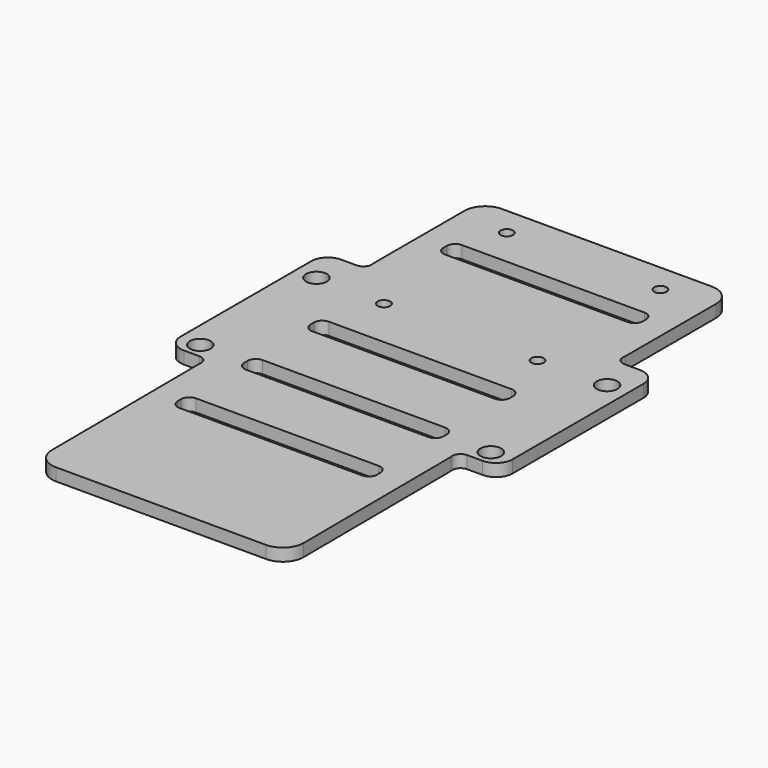
from build123d import *

# Parameters (mm, degrees)
F0_R     = 2.5
F0_R_2   = 1.5
F1_DEPTH = 3


with BuildPart() as f1:
    # F0 (on Top) → F1 (new body)
    with BuildSketch(Plane.XY):
        with BuildLine():
            ThreePointArc((4.42411, -8.948789), (4.068757, -10.673534), (2.487618, -11.448789))
            Line((2.487618, -11.448789), (-1.258349, -11.448789))
            ThreePointArc((-1.258349, -11.448789), (-4.086776, -12.620362), (-5.258349, -15.448789))
            Line((-5.258349, -15.448789), (-5.258349, -54.828789))
            ThreePointArc((-5.258349, -54.828789), (-4.086776, -57.657216), (-1.258349, -58.828789))
            Line((-1.258349, -58.828789), (2.487618, -58.828789))
            ThreePointArc((2.487618, -58.828789), (4.068757, -59.604044), (4.42411, -61.328789))
            Line((4.42411, -61.328789), (4.709902, -106.048986))
            ThreePointArc((4.709902, -106.048986), (6.185581, -109.563846), (9.7098, -111.017033))
            Line((9.7098, -111.017033), (60.344679, -111.017033))
            ThreePointArc((60.344679, -111.017033), (63.891492, -109.541252), (65.344577, -105.985081))
            Line((65.344577, -105.985081), (65.059193, -61.328789))
            ThreePointArc((65.059193, -61.328789), (65.414546, -59.604044), (66.995685, -58.828789))
            Line((66.995685, -58.828789), (70.741651, -58.828789))
            ThreePointArc((70.741651, -58.828789), (73.570078, -57.657216), (74.741651, -54.828789))
            Line((74.741651, -54.828789), (74.741651, -15.448789))
            ThreePointArc((74.741651, -15.448789), (73.570078, -12.620362), (70.741651, -11.448789))
            Line((70.741651, -11.448789), (66.995685, -11.448789))
            ThreePointArc((66.995685, -11.448789), (65.414546, -10.673534), (65.059193, -8.948789))
            Line((65.059193, -8.948789), (65.059193, 18.551211))
            ThreePointArc((65.059193, 18.551211), (63.594727, 22.086745), (60.059193, 23.551211))
            Line((60.059193, 23.551211), (9.42411, 23.551211))
            ThreePointArc((9.42411, 23.551211), (5.888576, 22.086745), (4.42411, 18.551211))
            Line((4.42411, 18.551211), (4.42411, -8.948789))
        make_face()
        with Locations((-0.258349, -55.138789)):
            Circle(F0_R, mode=Mode.SUBTRACT)
        with BuildLine():
            ThreePointArc((10.741651, -74.638789), (11.327438, -73.224575), (12.741651, -72.638789))
            Line((12.741651, -72.638789), (56.741651, -72.638789))
            ThreePointArc((56.741651, -72.638789), (58.155865, -73.224575), (58.741651, -74.638789))
            Line((58.741651, -74.638789), (58.741651, -75.638789))
            ThreePointArc((58.741651, -75.638789), (58.155865, -77.053002), (56.741651, -77.638789))
            Line((56.741651, -77.638789), (12.741651, -77.638789))
            ThreePointArc((12.741651, -77.638789), (11.327438, -77.053002), (10.741651, -75.638789))
            Line((10.741651, -75.638789), (10.741651, -74.638789))
        make_face(mode=Mode.SUBTRACT)
        with BuildLine():
            Line((56.741651, -57.638789), (12.741651, -57.638789))
            ThreePointArc((12.741651, -57.638789), (11.327438, -57.053002), (10.741651, -55.638789))
            Line((10.741651, -55.638789), (10.741651, -54.638789))
            ThreePointArc((10.741651, -54.638789), (11.327438, -53.224575), (12.741651, -52.638789))
            Line((12.741651, -52.638789), (56.741651, -52.638789))
            ThreePointArc((56.741651, -52.638789), (58.155865, -53.224575), (58.741651, -54.638789))
            Line((58.741651, -54.638789), (58.741651, -55.638789))
            ThreePointArc((58.741651, -55.638789), (58.155865, -57.053002), (56.741651, -57.638789))
        make_face(mode=Mode.SUBTRACT)
        with Locations((69.741651, -55.138789)):
            Circle(F0_R, mode=Mode.SUBTRACT)
        with Locations((-0.258349, -20.138789)):
            Circle(F0_R, mode=Mode.SUBTRACT)
        with Locations((16.241651, -20.448789)):
            Circle(F0_R_2, mode=Mode.SUBTRACT)
        with Locations((16.241651, 16.551211)):
            Circle(F0_R_2, mode=Mode.SUBTRACT)
        with BuildLine():
            Line((12.741651, -32.638789), (56.741651, -32.638789))
            ThreePointArc((56.741651, -32.638789), (58.155865, -33.224575), (58.741651, -34.638789))
            Line((58.741651, -34.638789), (58.741651, -35.638789))
            ThreePointArc((58.741651, -35.638789), (58.155865, -37.053002), (56.741651, -37.638789))
            Line((56.741651, -37.638789), (12.741651, -37.638789))
            ThreePointArc((12.741651, -37.638789), (11.327438, -37.053002), (10.741651, -35.638789))
            Line((10.741651, -35.638789), (10.741651, -34.638789))
            ThreePointArc((10.741651, -34.638789), (11.327438, -33.224575), (12.741651, -32.638789))
        make_face(mode=Mode.SUBTRACT)
        with Locations((53.241651, -20.448789)):
            Circle(F0_R_2, mode=Mode.SUBTRACT)
        with Locations((69.741651, -20.138789)):
            Circle(F0_R, mode=Mode.SUBTRACT)
        with BuildLine():
            Line((56.741651, 2.361211), (12.741651, 2.361211))
            ThreePointArc((12.741651, 2.361211), (11.327438, 2.946998), (10.741651, 4.361211))
            Line((10.741651, 4.361211), (10.741651, 5.361211))
            ThreePointArc((10.741651, 5.361211), (11.327438, 6.775425), (12.741651, 7.361211))
            Line((12.741651, 7.361211), (56.741651, 7.361211))
            ThreePointArc((56.741651, 7.361211), (58.155865, 6.775425), (58.741651, 5.361211))
            Line((58.741651, 5.361211), (58.741651, 4.361211))
            ThreePointArc((58.741651, 4.361211), (58.155865, 2.946998), (56.741651, 2.361211))
        make_face(mode=Mode.SUBTRACT)
        with Locations((53.241651, 16.551211)):
            Circle(F0_R_2, mode=Mode.SUBTRACT)
    extrude(amount=-F1_DEPTH)


solid = f1.part
